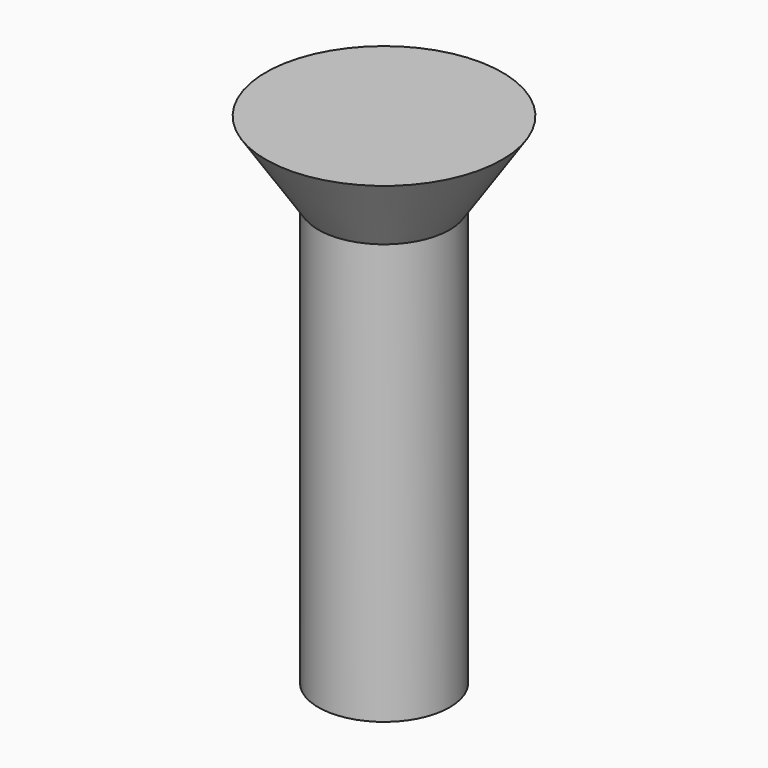
from build123d import *

# Parameters (mm, degrees)
CYLINDER011_R                   = 2.5
CYLINDER011_DEPTH               = 16
FUSION001018017_PLACEMENT_ANGLE = 180
CLONE023_PLACEMENT_ANGLE        = 180


with BuildPart() as cone003:
    # Cone003 → Cone003 (revolve)
    with BuildSketch(Plane(origin=(0, 0, -3), x_dir=(1, 0, 0), z_dir=(0, -1, 0))):
        Polygon((0, 0), (4.5, 0), (2.5, 3), (0, 3), align=None)
    revolve(axis=Axis((0, 0, -3), (0, 0, 1)))


with BuildPart() as obj1:
    # Cylinder011 → Cylinder011 (new body)
    with BuildSketch(Plane.XY):
        Circle(CYLINDER011_R)
    extrude(amount=CYLINDER011_DEPTH)

    # Fusion001018017: union Cone003
    add(cone003.part)


with BuildPart() as obj1_1:
    # Fusion001018017 placement: moved
    add(obj1.part.moved(Location((45, 15, 21))).rotate(Axis((45, 15, 21), (0, 1, 0)), FUSION001018017_PLACEMENT_ANGLE))


with BuildPart() as obj1_2:
    # Clone023 placement: moved
    add(obj1_1.part.moved(Location((115, 270, 0))).rotate(Axis((115, 270, 0), (0, 0, 1)), CLONE023_PLACEMENT_ANGLE))


solid = obj1_2.part
